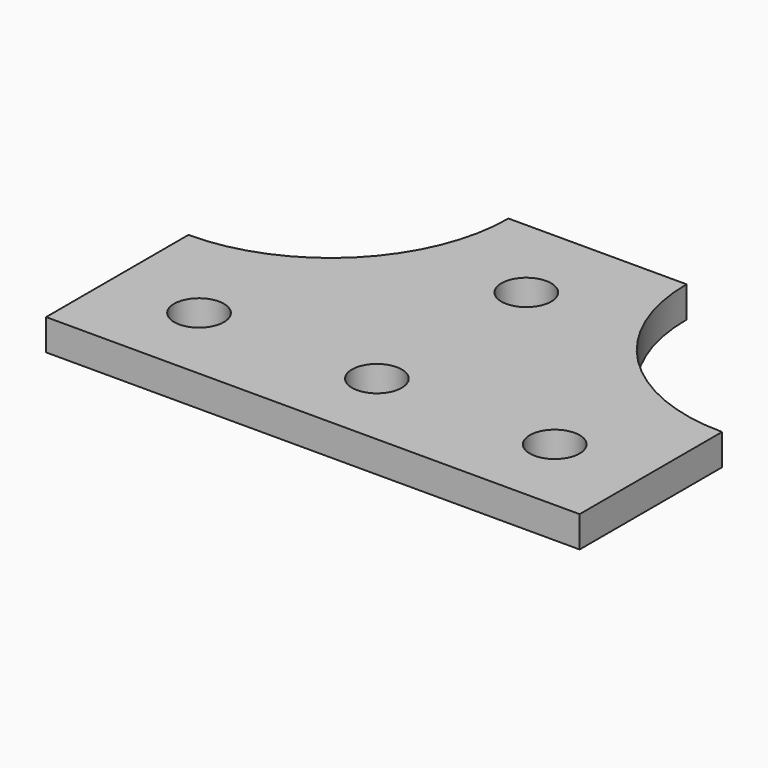
from build123d import *

# Parameters (mm, degrees)
PAD_DEPTH     = 3.5
SKETCH001_R   = 2.8
SKETCH001_R_2 = 20
SKETCH001_R_3 = 19.975063
POCKET_DEPTH  = 3.501


with BuildPart() as part:
    # Sketch → Pad (new body)
    with BuildSketch(Plane.XY):
        Polygon((0, 0), (40, 0), (40, 20), (20, 40), (0, 40), (-20, 20), (-20, 0), align=None)
    extrude(amount=PAD_DEPTH)

    # Sketch001 → Pocket (cut, through all)
    with BuildSketch(Plane.XY.offset(3.5)):
        with Locations((10, 30)):
            Circle(SKETCH001_R)
        with Locations((10, 9)):
            Circle(SKETCH001_R)
        with Locations((30, 9)):
            Circle(SKETCH001_R)
        with Locations((-10, 9)):
            Circle(SKETCH001_R)
        with Locations((-20, 40)):
            Circle(SKETCH001_R_2)
        with Locations((40, 40)):
            Circle(SKETCH001_R_3)
    extrude(amount=-POCKET_DEPTH, mode=Mode.SUBTRACT)


solid = part.part
